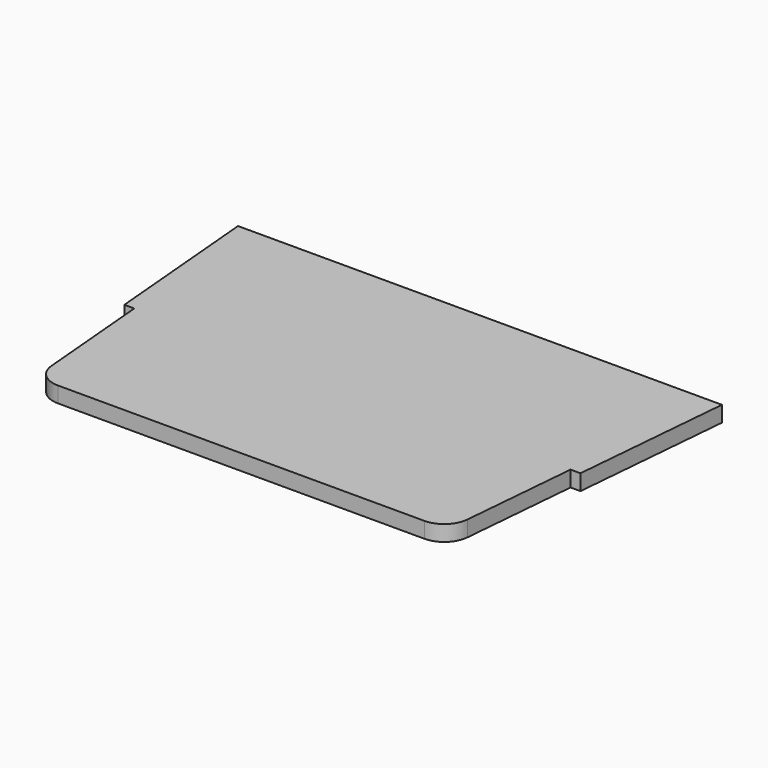
from build123d import *

# Parameters (mm, degrees)
F1_DEPTH = 3.175
F2_R     = 5


with BuildPart() as f1:
    # F0 (on Top) → F1 (new body)
    with BuildSketch(Plane.XY):
        Polygon((48.75, 14.636084), (-48.75, 14.636084), (-45.944906, -17.488916), (-43.944906, -17.488916), (-41.5, -45.488916), (0, -45.488916), (41.5, -45.488916), (43.944906, -17.488916), (45.944906, -17.488916), align=None)
    extrude(amount=F1_DEPTH)

    # F2
    f2_edges = [f1.edges().sort_by_distance(p)[0] for p in [
        (-41.5, -45.488916, 1.5875),
        (41.5, -45.488916, 1.5875),
    ]]
    fillet(f2_edges, radius=F2_R)


solid = f1.part
